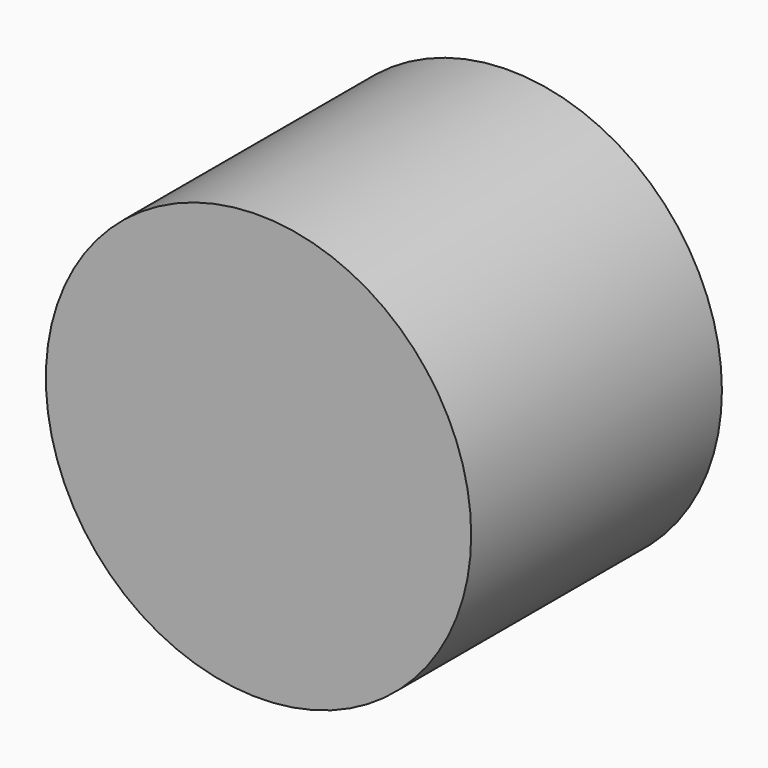
from build123d import *

# Parameters (mm, degrees)
F0_R     = 9.5
F1_DEPTH = 14
F2_W     = 5.25
F2_H     = 5.25
F3_DEPTH = 10


with BuildPart() as f1:
    # F0 (on Front) → F1 (new body)
    with BuildSketch(Plane.XZ):
        Circle(F0_R)
    extrude(amount=F1_DEPTH)

    # F2 (on face) → F3 (cut)
    with BuildSketch(Plane(origin=(0, 0, 0), x_dir=(-1, 0, 0), z_dir=(0, 1, 0))):
        Rectangle(F2_W, F2_H)
    extrude(amount=-F3_DEPTH, mode=Mode.SUBTRACT)


solid = f1.part
